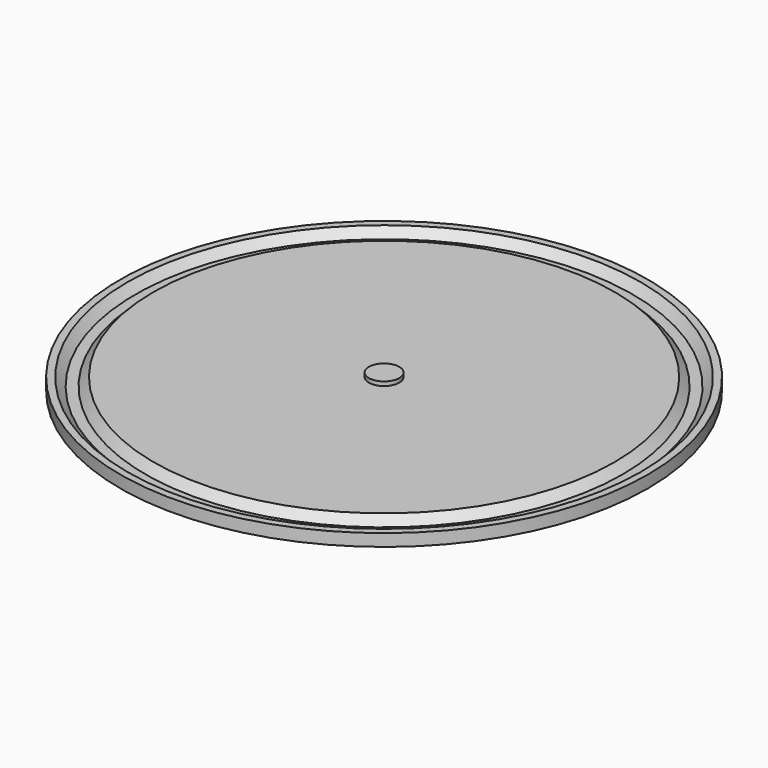
from build123d import *

# Parameters (mm, degrees)
SKETCH002_R  = 65
PAD_DEPTH    = 4
POCKET_DEPTH = 20
CHAMFER_SIZE = 7


with BuildPart() as body001:
    # Sketch002 → Pad (new body)
    with BuildSketch(Plane.XY):
        Circle(SKETCH002_R)
    extrude(amount=PAD_DEPTH)


with BuildPart() as body:
    # Sketch → Revolution (revolve)
    with BuildSketch(Plane.XZ):
        Polygon((0, 0), (0, 15), (3.75, 15), (3.75, 3), (56.757359, 3), (58.757359, 1), (61.242641, 1), (63.242641, 3), (96.585786, 3), (98, 4.414214), (98, 20), (100, 20), (100, 0), align=None)
    revolve(axis=Axis((0, 0, 0), (0, 0, 1)))

    # Sketch001 (on DatumPlane) → Pocket (cut)
    with BuildSketch(Plane(origin=(0, 0, 4), x_dir=(-1, 0, 0), z_dir=(0, 0, 1))):
        with BuildLine():
            ThreePointArc((-60, -103.923048), (0, -120), (60, -103.923048))
            Line((32.5, -56.291651), (60, -103.923048))
            ThreePointArc((-32.5, -56.291651), (0, -65), (32.5, -56.291651))
            Line((-32.5, -56.291651), (-60, -103.923048))
        make_face()
    extrude(amount=POCKET_DEPTH, mode=Mode.SUBTRACT)

    # Chamfer
    chamfer_edges = [body.edges().sort_by_distance(p)[0] for p in [
        (-49.396447, 85.557155, 4),
        (49.396447, 85.557155, 4),
    ]]
    chamfer(chamfer_edges, length=CHAMFER_SIZE)

    # Boolean: intersect Body001
    add(body001.part, mode=Mode.INTERSECT)


solid = body.part
